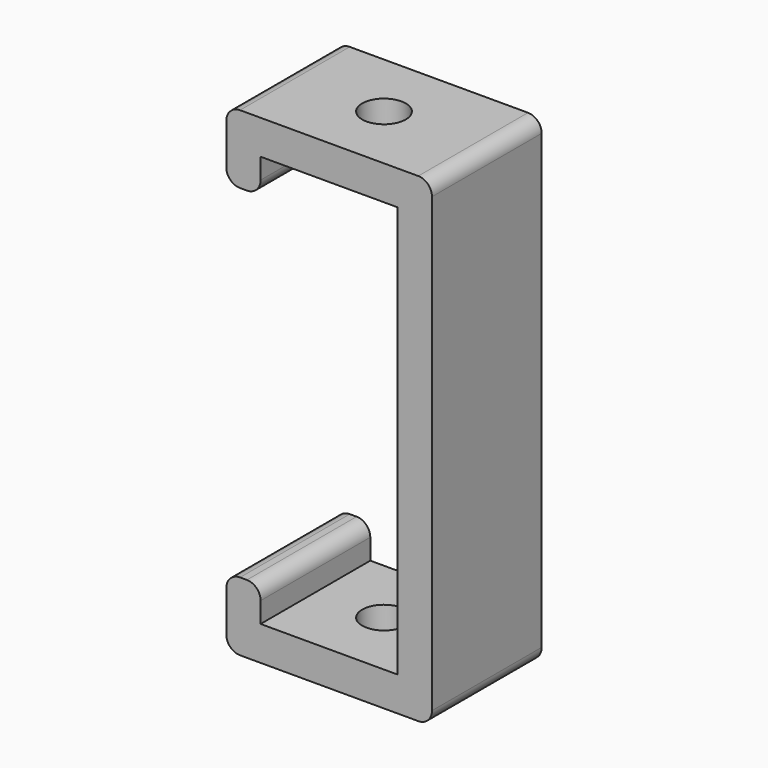
from build123d import *

# Parameters (mm, degrees)
F1_DEPTH      = 6.35
F1_DEPTH_BACK = 6.35
F3_D          = 4.0386
F4_R          = 1.27


with BuildPart() as f1:
    # F0 (on Front) → F1 (new body, two sides)
    with BuildSketch(Plane.XZ) as f1_sk:
        Polygon((-6.35, 19.05), (6.35, 19.05), (6.35, -19.05), (-6.35, -19.05), (-6.35, -15.875), (-9.525, -15.875), (-9.525, -22.225), (9.525, -22.225), (9.525, 22.225), (-9.525, 22.225), (-9.525, 15.875), (-6.35, 15.875), align=None)
    extrude(amount=F1_DEPTH)
    extrude(f1_sk.sketch, amount=-F1_DEPTH_BACK)

    # F3 (through all)
    with Locations(Plane.XY.offset(22.225)):
        with Locations((0, 0)):
            Hole(F3_D / 2)

    # F4
    f4_edges = [f1.edges().sort_by_distance(p)[0] for p in [
        (-9.525, 0, 22.225),
        (-9.525, 0, 15.875),
        (-6.35, 0, 15.875),
        (9.525, 0, 22.225),
        (9.525, 0, -22.225),
        (-9.525, 0, -22.225),
        (-9.525, 0, -15.875),
        (-6.35, 0, -15.875),
    ]]
    fillet(f4_edges, radius=F4_R)


solid = f1.part
